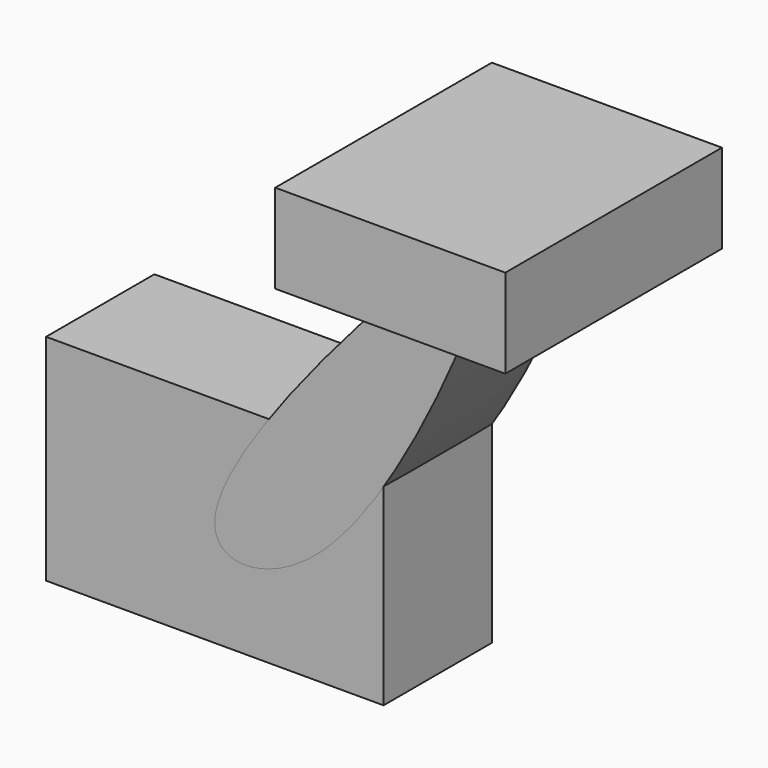
from build123d import *

# Parameters (mm, degrees)
F1_DEPTH = 25.4
F0_W     = 43.1708618999
F0_H     = 16.6927278042
F2_DEPTH = 25.4
F4_DEPTH = 25.4


with BuildPart() as f1:
    # F0 (on Front) → F1 (new body)
    with BuildSketch(Plane.XZ):
        Polygon((-31.6586308181, -20.1464034617), (31.6586308181, -20.1464034617), (31.6586308181, 20.1464034617), (0, 20.1464034617), (-31.6586308181, 20.1464034617), align=None)
    extrude(amount=F1_DEPTH)


with BuildPart() as f1b:
    # F0 (on Front) → F1, piece 2 (new body)
    with BuildSketch(Plane.XZ):
        with Locations((53.2440617681, 67.3465430737)):
            Rectangle(F0_W, F0_H)
    extrude(amount=F1_DEPTH)

    # F2 (add): a face of the model
    f2_faces = [f1b.faces().sort_by_distance(p)[0] for p in [
        (53.2440617681, -25.4, 67.3465430737),
    ]]
    extrude(f2_faces, amount=F2_DEPTH)


with BuildPart() as f4:
    # F3 (on Front) → F4 (new body)
    with BuildSketch(Plane.XZ):
        with BuildLine():
            add(Edge.make_bspline(
                [(0, 0), (0.501768837, 15.3173342245), (50.9754407785, 67.9895437341), (55.6985837426, 66.0614461716), (28.3296785515, -7.7479942002), (-0.2330394037, -7.1139181448), (0, 0)],
                knots=[0, 0, 0, 0, 0.3971293615, 0.4419892978, 0.8155589132, 1, 1, 1, 1], degree=3))
        make_face()
    extrude(amount=F4_DEPTH)


solid = Compound([f1.part, f1b.part, f4.part])
